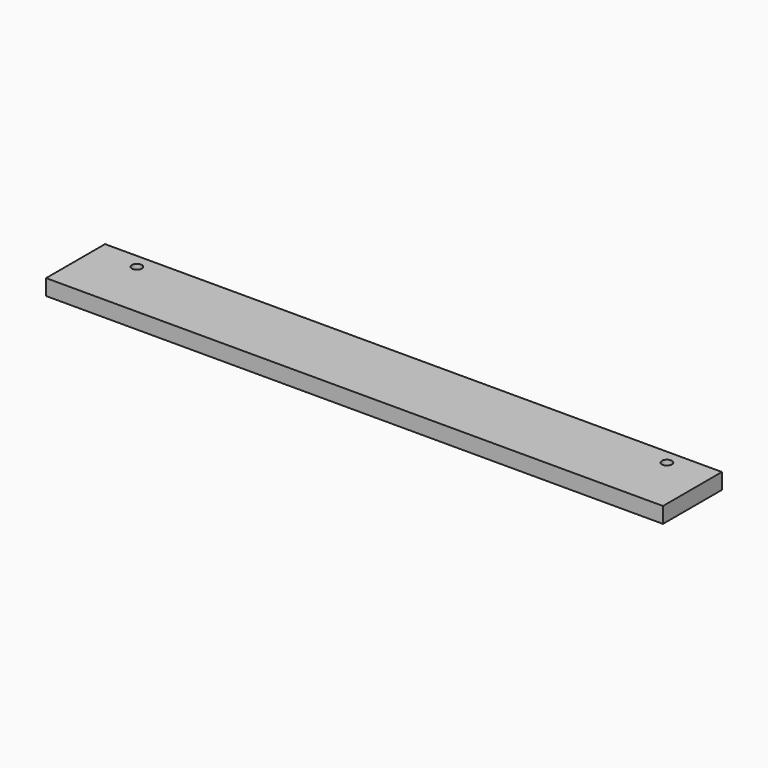
from build123d import *

# Parameters (mm, degrees)
SKETCH_W  = 744.4
SKETCH_H  = 88.9
SKETCH_R  = 6
PAD_DEPTH = 19.05


with BuildPart() as part:
    # Sketch → Pad (new body)
    with BuildSketch(Plane.XY):
        with Locations((372.2, 44.45)):
            Rectangle(SKETCH_W, SKETCH_H)
        with Locations((52.39, 71.44)):
            Circle(SKETCH_R, mode=Mode.SUBTRACT)
        with Locations((692.01, 71.44)):
            Circle(SKETCH_R, mode=Mode.SUBTRACT)
    extrude(amount=PAD_DEPTH)


solid = part.part
